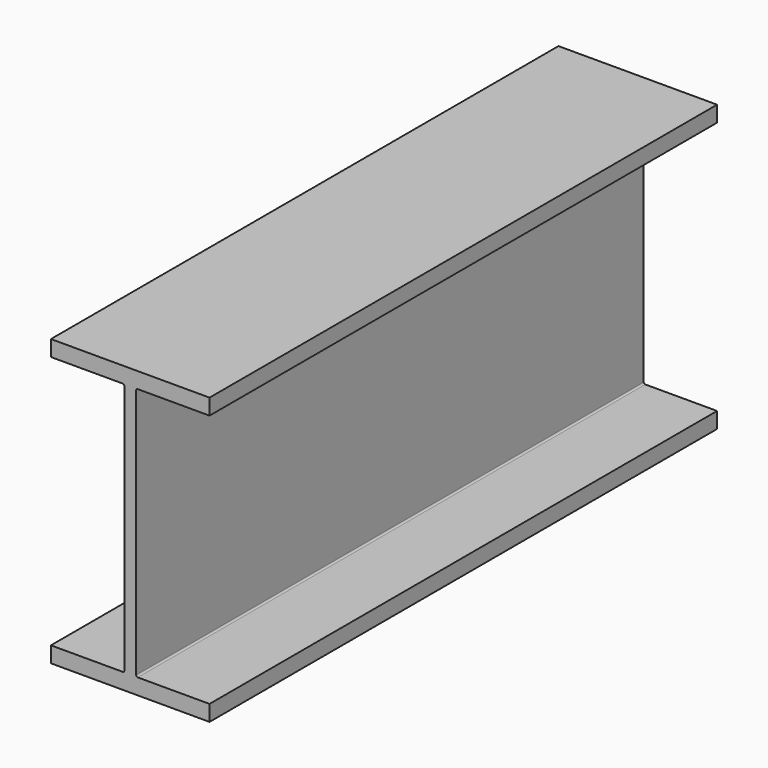
from build123d import *

# Parameters (mm, degrees)
F1_DEPTH = 508


with BuildPart() as f1:
    # F0 (on Front) → F1 (new body, symmetric)
    with BuildSketch(Plane.XZ):
        with BuildLine():
            Line((127, -228.6), (127, -203.2))
            Line((127, -203.2), (12.065, -203.2))
            ThreePointArc((12.065, -203.2), (10.268949, -202.456051), (9.525, -200.66))
            Line((9.525, -200.66), (9.525, 200.66))
            ThreePointArc((9.525, 200.66), (10.268949, 202.456051), (12.065, 203.2))
            Line((12.065, 203.2), (127, 203.2))
            Line((127, 203.2), (127, 228.6))
            Line((127, 228.6), (-127, 228.6))
            Line((-127, 228.6), (-127, 203.2))
            Line((-127, 203.2), (-12.065, 203.2))
            ThreePointArc((-12.065, 203.2), (-10.268949, 202.456051), (-9.525, 200.66))
            Line((-9.525, 200.66), (-9.525, -200.66))
            ThreePointArc((-9.525, -200.66), (-10.268949, -202.456051), (-12.065, -203.2))
            Line((-12.065, -203.2), (-127, -203.2))
            Line((-127, -203.2), (-127, -228.6))
            Line((-127, -228.6), (127, -228.6))
        make_face()
    extrude(amount=F1_DEPTH, both=True)


solid = f1.part
